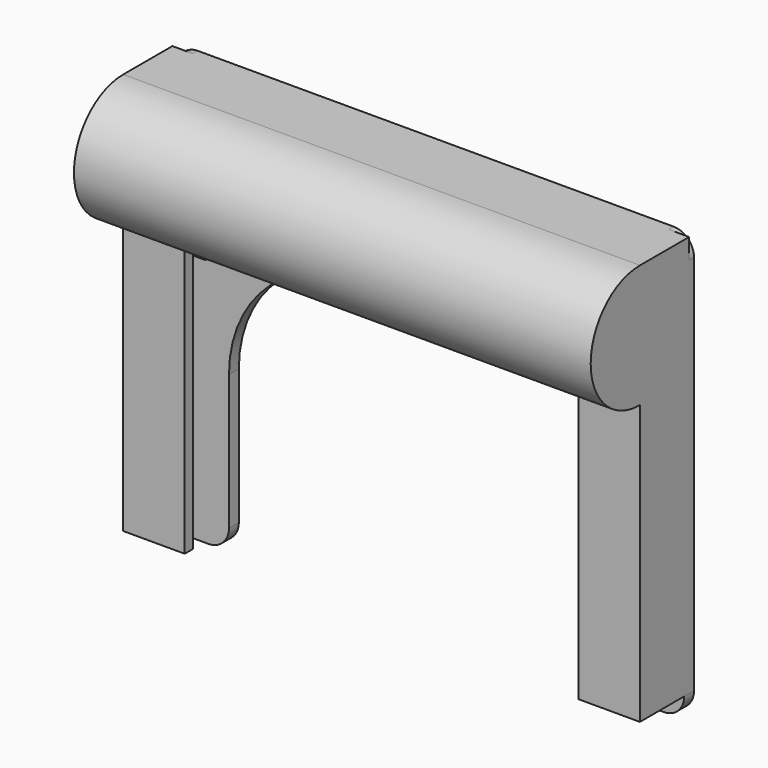
from build123d import *

# Parameters (mm, degrees)
F1_DEPTH  = 1.5
F3_DEPTH  = 63
F6_DEPTH  = 68
F8_W      = 5.6641247272
F8_H      = 11.9948398471
F9_DEPTH  = 0.5
F10_W     = 1.7004162073
F10_H     = 6.2374770641
F11_DEPTH = 2
F13_DEPTH = 3


with BuildPart() as f1:
    # F0 (on Front) → F1 (new body, symmetric)
    with BuildSketch(Plane.XZ):
        with BuildLine():
            Line((53, -51.5), (58, -51.5))
            ThreePointArc((58, -51.5), (61.5355339059, -50.0355339059), (63, -46.5))
            Line((63, -46.5), (63, 46.5))
            ThreePointArc((63, 46.5), (61.5355339059, 50.0355339059), (58, 51.5))
            Line((58, 51.5), (-58, 51.5))
            ThreePointArc((-58, 51.5), (-61.5355339059, 50.0355339059), (-63, 46.5))
            Line((-63, 46.5), (-63, -46.5))
            ThreePointArc((-63, -46.5), (-61.5355339059, -50.0355339059), (-58, -51.5))
            Line((-58, -51.5), (-53, -51.5))
            ThreePointArc((-53, -51.5), (-49.4644660941, -50.0355339059), (-48, -46.5))
            Line((-48, -46.5), (-48, -13.5))
            ThreePointArc((-48, -13.5), (-39.2132034356, 7.7132034356), (-18, 16.5))
            Line((-18, 16.5), (18, 16.5))
            ThreePointArc((18, 16.5), (39.2132034356, 7.7132034356), (48, -13.5))
            Line((48, -13.5), (48, -46.5))
            ThreePointArc((48, -46.5), (49.4644660941, -50.0355339059), (53, -51.5))
        make_face()
    extrude(amount=F1_DEPTH, both=True)

    # F2 (on Right) → F3 (join, symmetric)
    with BuildSketch(Plane.YZ):
        with BuildLine():
            Line((0, 21.5), (0, 51.5))
            Line((0, 51.5), (-15, 51.5))
            ThreePointArc((-15, 51.5), (-25.6066017178, 47.1066017178), (-30, 36.5))
            ThreePointArc((-30, 36.5), (-25.6066017178, 25.8933982822), (-15, 21.5))
            Line((-15, 21.5), (0, 21.5))
        make_face()
    extrude(amount=F3_DEPTH, both=True)

    # F5 (on face) → F6 (join)
    with BuildSketch(Plane(origin=(0, 0, 21.5), x_dir=(1, 0, 0), z_dir=(0, 0, -1))):
        Polygon((-48, 15), (-63, 15), (-63, 1.5), (-59, 1.5), (-59, 12.5), (-48, 12.5), align=None)
    extrude(amount=F6_DEPTH)

    # F7: F1 across plane


with BuildPart() as f1_1:
    add(f1.part)
    add(f1.part.mirror(Plane.YZ))

    # F8 (on face) → F9 (join)
    with BuildSketch(Plane.XZ.offset(1.5)):
        with Locations((-56.1679376364, 15.5025800765)):
            Rectangle(F8_W, F8_H)
    extrude(amount=F9_DEPTH)

    # F10 (on face) → F11 (join)
    with BuildSketch(Plane.XZ.offset(2)):
        with Locations((-56.6318407655, 17.4285247922)):
            Rectangle(F10_W, F10_H)
    extrude(amount=F11_DEPTH)

    # F12 (on face) → F13 (cut)
    with BuildSketch(Plane.YZ.offset(-55.7816326618)):
        Polygon((-2, 14.3097862601), (-4, 20.5472633243), (-4, 14.3097862601), align=None)
    extrude(amount=-F13_DEPTH, mode=Mode.SUBTRACT)


solid = f1_1.part
